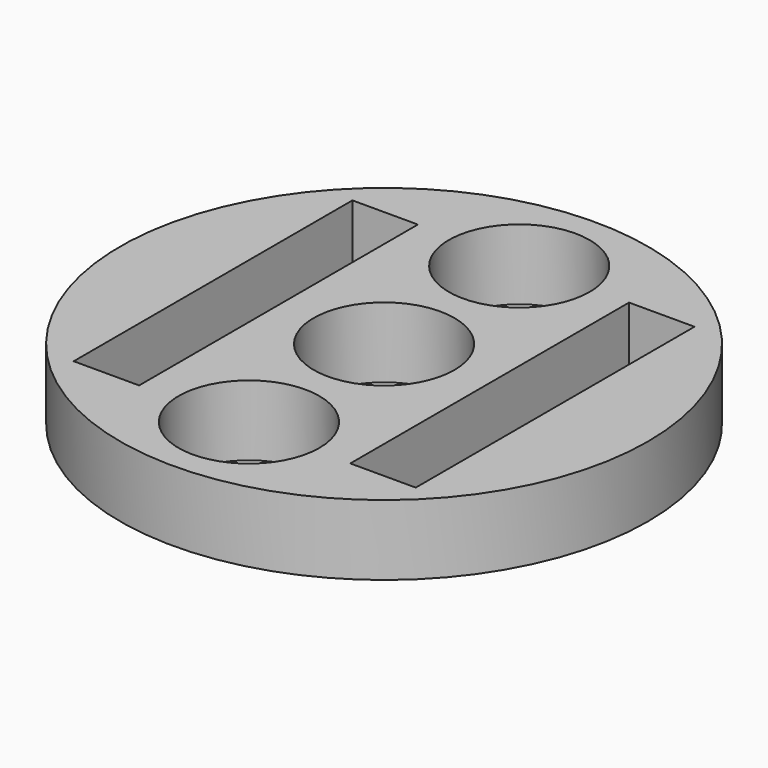
from build123d import *

# Parameters (mm, degrees)
F0_R     = 37.5
F1_DEPTH = 10
F2_W     = 9.3
F2_H     = 49.5
F3_DEPTH = 8
F2_R     = 10
F4_DEPTH = 10.001


with BuildPart() as f1:
    # F0 (on Top) → F1 (new body)
    with BuildSketch(Plane.XY):
        Circle(F0_R)
    extrude(amount=F1_DEPTH)

    # F2 (on face) → F3 (cut)
    with BuildSketch(Plane.XY.offset(10)):
        with Locations((-19.65, 0)):
            Rectangle(F2_W, F2_H)
        with Locations((19.65, 0)):
            Rectangle(F2_W, F2_H)
    extrude(amount=-F3_DEPTH, mode=Mode.SUBTRACT)

    # F2 (on face) → F4 (cut, through all)
    with BuildSketch(Plane.XY.offset(10)):
        with Locations((0, 24)):
            Circle(F2_R)
        Circle(F2_R)
        with Locations((0, -24)):
            Circle(F2_R)
    extrude(amount=-F4_DEPTH, mode=Mode.SUBTRACT)


solid = f1.part
